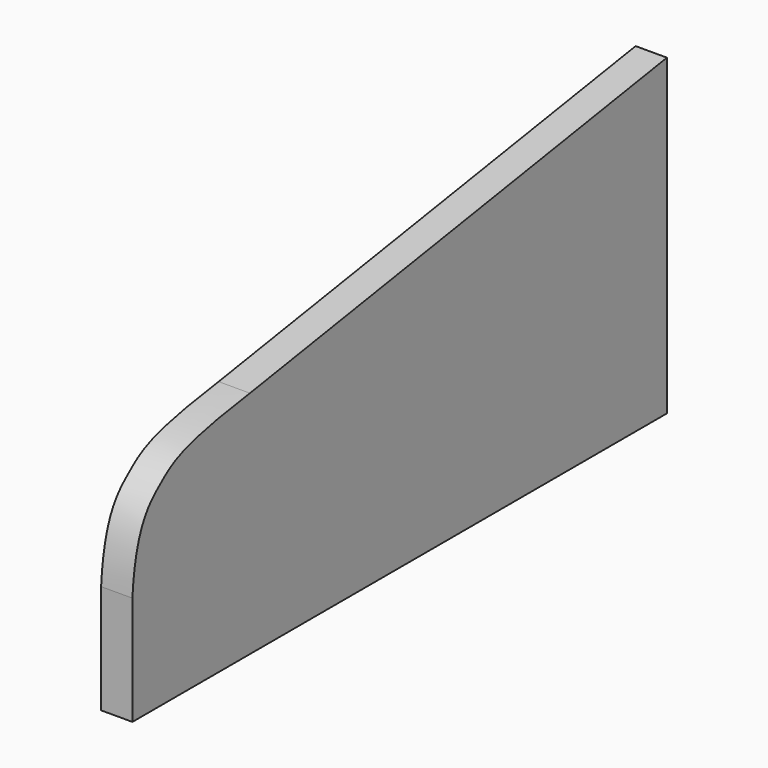
from build123d import *

# Parameters (mm, degrees)
F1_DEPTH = 19.05


with BuildPart() as f1:
    # F0 (on Right) → F1 (new body)
    with BuildSketch(Plane.YZ):
        with BuildLine():
            Line((-210.5121730238, -80.7297796861), (195.8878269762, -80.7297796861))
            Line((195.8878269762, -80.7297796861), (195.8878269762, 109.7702203139))
            Line((195.8878269762, 109.7702203139), (-121.1571238418, 58.9702203139))
            add(Edge.make_bspline(
                [(-121.1571238418, 58.9702203139), (-172.9874442081, 51.898027883), (-185.771092074, 40.6849409005), (-208.0948090763, 22.9655395757), (-210.5121730238, -14.4543079659)],
                knots=[0, 0, 0, 0, 0.5278348, 1, 1, 1, 1], degree=3))
            Line((-210.5121730238, -14.4543079659), (-210.5121730238, -80.7297796861))
        make_face()
    extrude(amount=F1_DEPTH)


solid = f1.part
